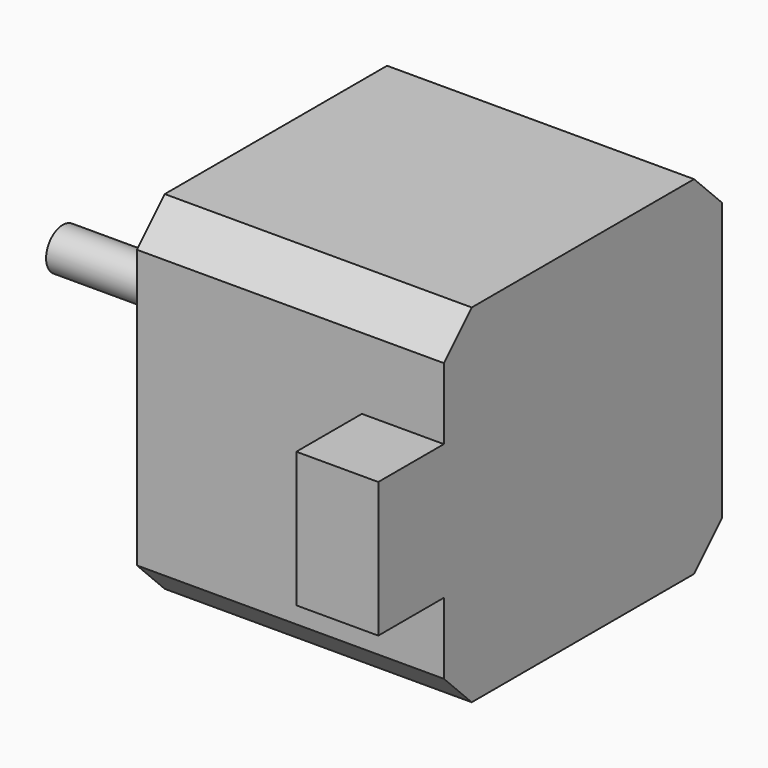
from build123d import *

# Parameters (mm, degrees)
PAD_DEPTH            = 37.45
SKETCH001_W          = 16.5
SKETCH001_H          = 10
PAD001_DEPTH         = 10
SKETCH002_R          = 11
PAD002_DEPTH         = 6
SKETCH003_R          = 2.545
PAD003_DEPTH         = 20
BODY_PLACEMENT_ANGLE = 90


with BuildPart() as part:
    # Sketch → Pad (new body)
    with BuildSketch(Plane.XY):
        Polygon((-21.2, 16.95), (-21.2, -16.95), (-16.95, -21.2), (16.95, -21.2), (21.2, -16.95), (21.2, 16.95), (16.95, 21.2), (-16.95, 21.2), align=None)
    extrude(amount=PAD_DEPTH)

    # Sketch001 (on Face3 of Pad) → Pad001 (join)
    with BuildSketch(Plane.XZ.offset(21.2)):
        with Locations((0, 5)):
            Rectangle(SKETCH001_W, SKETCH001_H)
    extrude(amount=PAD001_DEPTH)

    # Sketch002 (on Face5 of Pad001) → Pad002 (join)
    with BuildSketch(Plane.XY.offset(37.45)):
        Circle(SKETCH002_R)
    extrude(amount=PAD002_DEPTH)

    # Sketch003 (on Face17 of Pad002) → Pad003 (join)
    with BuildSketch(Plane.XY.offset(43.45)):
        Circle(SKETCH003_R)
    extrude(amount=PAD003_DEPTH)


with BuildPart() as part_1:
    # Body placement: moved
    add(part.part.moved(Location((-20, 0, 0))).rotate(Axis((-20, 0, 0), (0, -1, 0)), BODY_PLACEMENT_ANGLE))


solid = part_1.part
